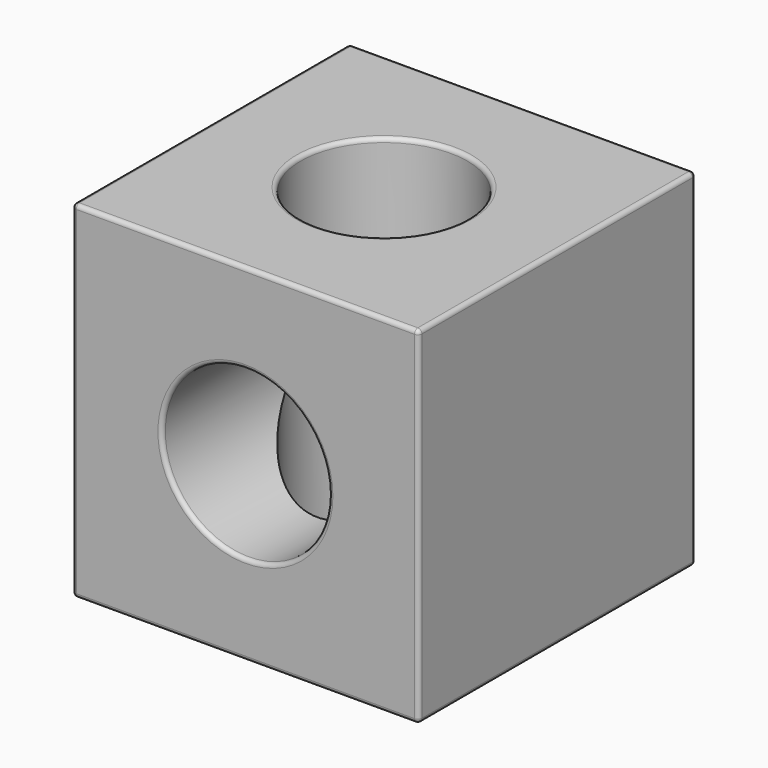
from build123d import *

# Parameters (mm, degrees)
F0_W     = 42.8625
F0_H     = 42.8625
F0_R     = 10.31875
F1_DEPTH = 42.8625
F2_R     = 10.31875
F3_DEPTH = 42.8635
F4_R     = 0.508
F5_R     = 0.508
F6_R     = 0.508


with BuildPart() as f1:
    # F0 (on Front) → F1 (new body)
    with BuildSketch(Plane.XZ):
        Rectangle(F0_W, F0_H)
        Circle(F0_R, mode=Mode.SUBTRACT)
    extrude(amount=F1_DEPTH)

    # F2 (on face) → F3 (cut, through all)
    with BuildSketch(Plane.XY.offset(21.43125)):
        with Locations((0, -21.43125)):
            Circle(F2_R)
    extrude(amount=-F3_DEPTH, mode=Mode.SUBTRACT)

    # F4
    f4_edges = [f1.edges().sort_by_distance(p)[0] for p in [
        (0, -42.8625, 21.43125),
    ]]
    fillet(f4_edges, radius=F4_R)

    # F5
    f5_edges = [f1.edges().sort_by_distance(p)[0] for p in [
        (21.43125, -21.17725, 21.43125),
        (21.43125, 0, 0),
        (21.43125, -21.43125, -21.43125),
        (-21.43125, -42.8625, -0.254),
        (0, -42.8625, -21.43125),
        (0, 0, -21.43125),
        (-21.43125, -21.43125, -21.43125),
        (0, 0, 21.43125),
        (21.43125, -42.8625, -0.254),
        (0, -42.8625, 20.92325),
        (-21.43125, 0, 0),
        (-21.43125, -21.17725, 21.43125),
    ]]
    fillet(f5_edges, radius=F5_R)

    # F6
    f6_edges = [f1.edges().sort_by_distance(p)[0] for p in [
        (-10.31875, -42.8625, 0),
        (-10.31875, -21.43125, -21.43125),
        (-10.31875, -21.43125, 21.43125),
        (-10.31875, 0, 0),
    ]]
    fillet(f6_edges, radius=F6_R)


solid = f1.part
